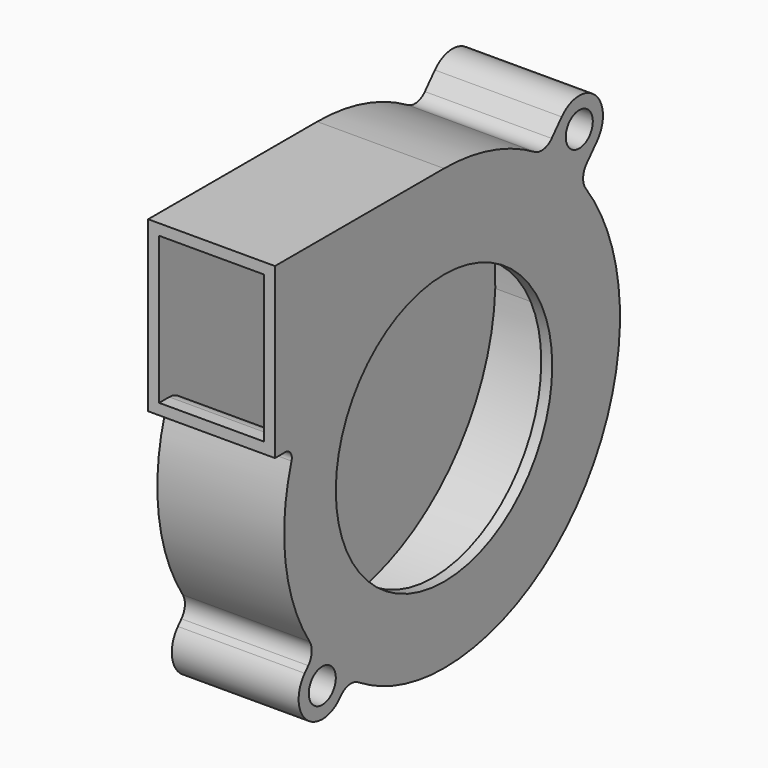
from build123d import *

# Parameters (mm, degrees)
F0_R     = 2
F0_R_2   = 16
F0_R_3   = 12
F1_DEPTH = 15
F2_T     = -1.3
F3_R     = 16
F4_DEPTH = 13.7


with BuildPart() as f1:
    # F0 (on Right) → F1 (new body)
    with BuildSketch(Plane.YZ):
        with BuildLine():
            Line((0, 27.04), (-25, 27.04))
            Line((-25, 27.04), (-25, 7.04))
            Line((-25, 7.04), (-23.5, 7.04))
            ThreePointArc((-23.5, 7.04), (-22.6936430136, 6.6314291255), (-22.5461939854, 5.7395768209))
            ThreePointArc((-22.5461939854, 5.7395768209), (-23.4283913263, -4.5038147219), (-19.878453039, -14.152818847))
            ThreePointArc((-19.878453039, -14.152818847), (-19.5668833751, -15.3965751397), (-20.074631189, -16.5739440406))
            Line((-20.074631189, -16.5739440406), (-20.6000079963, -17.1569339704))
            ThreePointArc((-20.6000079963, -17.1569339704), (-20.3430660296, -22.1000079963), (-15.3999920037, -21.8430660296))
            Line((-15.3999920037, -21.8430660296), (-15.2364696163, -21.6616116833))
            ThreePointArc((-15.2364696163, -21.6616116833), (-14.0211573422, -21.0188707984), (-12.6780712141, -21.3125022359))
            ThreePointArc((-12.6780712141, -21.3125022359), (-6.6017257113, -24.0594120315), (0, -25))
            ThreePointArc((0, -25), (18.0346887969, -17.7360763487), (26, 0))
            ThreePointArc((26, 0), (24.8756586881, 8.6516449625), (20.9547141799, 16.4453153497))
            ThreePointArc((20.9547141799, 16.4453153497), (20.5678212068, 17.7298278052), (21.0796574448, 18.969860904))
            Line((21.0796574448, 18.969860904), (22.6000079963, 20.6569339704))
            ThreePointArc((22.6000079963, 20.6569339704), (22.3430660296, 25.6000079963), (17.3999920037, 25.3430660296))
            Line((17.3999920037, 25.3430660296), (15.9178980328, 23.6984447825))
            ThreePointArc((15.9178980328, 23.6984447825), (14.7273428061, 23.0592399542), (13.4020450466, 23.3230398953))
            ThreePointArc((13.4020450466, 23.3230398953), (6.9539665632, 26.0935467981), (0, 27.04))
        make_face()
        with Locations((-18, -19.5)):
            Circle(F0_R, mode=Mode.SUBTRACT)
        Circle(F0_R_2, mode=Mode.SUBTRACT)
        with Locations((20, 23)):
            Circle(F0_R, mode=Mode.SUBTRACT)
        Circle(F0_R_2)
        Circle(F0_R_3, mode=Mode.SUBTRACT)
        Circle(F0_R_3)
    extrude(amount=F1_DEPTH)

    # F2
    f2_openings = [f1.faces().sort_by_distance(p)[0] for p in [
        (7.5, -25, 17.04),
    ]]
    offset(amount=F2_T, openings=f2_openings)

    # F3 (on face) → F4 (cut, through all)
    with BuildSketch(Plane.YZ.offset(15)):
        Circle(F3_R)
    extrude(amount=-F4_DEPTH, mode=Mode.SUBTRACT)


solid = f1.part
